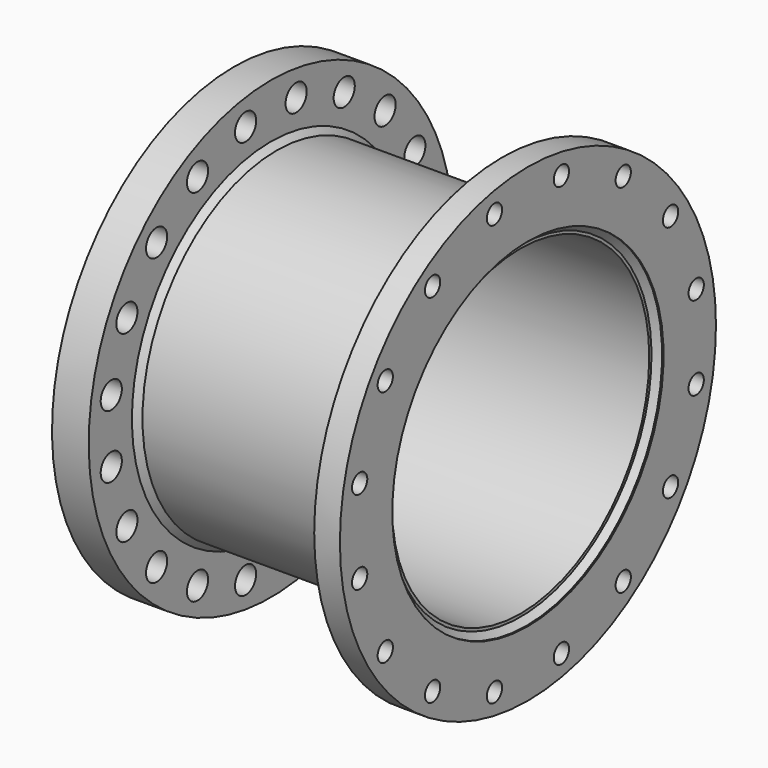
from build123d import *

# Parameters (mm, degrees)
F6_D     = 36
F6_DEPTH = 50
F8_D     = 26
F8_DEPTH = 50


with BuildPart() as f1:
    # F0 (on Front) → F1 (revolve)
    with BuildSketch(Plane.XZ):
        Polygon((-200, 230), (-198, 230), (-190, 230), (-150, 230), (-150, 236.5), (-150, 310), (-200, 310), align=None)
    revolve(axis=Axis((-10.172708, 0, 0), (1, 0, 0)))

    # F6
    with Locations(Plane(origin=(-200, 0, 0), x_dir=(0, -1, 0), z_dir=(-1, 0, 0))):
        with Locations((-124.847387, 245.026794), (-43.019478, 271.614294), (43.019478, 271.614294), (124.847387, 245.026794), (194.454365, 194.454365), (245.026794, 124.847387), (271.614294, 43.019478), (271.614294, -43.019478), (245.026794, -124.847387), (194.454365, -194.454365), (124.847387, -245.026794), (43.019478, -271.614294), (-43.019478, -271.614294), (-124.847387, -245.026794), (-194.454365, -194.454365), (-245.026794, -124.847387), (-271.614294, -43.019478), (-271.614294, 43.019478), (-245.026794, 124.847387), (-194.454365, 194.454365)):
            Hole(F6_D / 2, depth=F6_DEPTH)


with BuildPart() as f2:
    # F0 (on Front) → F2 (revolve)
    with BuildSketch(Plane.XZ):
        Polygon((165, 320), (165, 236.5), (165, 230.85), (190, 230.85), (198, 230.85), (200, 230.85), (200, 320), align=None)
    revolve(axis=Axis((-10.172708, 0, 0), (1, 0, 0)))

    # F8
    with Locations(Plane.YZ.offset(200)):
        with Locations((-162.226508, 242.789127), (-56.966374, 286.389302), (56.966374, 286.389302), (162.226508, 242.789127), (286.389302, 56.966374), (286.389302, -56.966374), (242.789127, 162.226508), (242.789127, -162.226508), (162.226508, -242.789127), (56.966374, -286.389302), (-56.966374, -286.389302), (-162.226508, -242.789127), (-286.389302, -56.966374), (-242.789127, -162.226508), (-242.789127, 162.226508), (-286.389302, 56.966374)):
            Hole(F8_D / 2, depth=F8_DEPTH)


with BuildPart() as f3:
    # F0 (on Front) → F3 (revolve)
    with BuildSketch(Plane.XZ):
        Polygon((0, 228.5), (0, 218.97), (190, 218.97), (190, 222.85), (190, 228.5), (165, 228.5), (157, 228.5), align=None)
        Polygon((-190, 218.97), (0, 218.97), (0, 228.5), (-142, 228.5), (-150, 228.5), (-190, 228.5), (-190, 222), align=None)
    revolve(axis=Axis((-10.172708, 0, 0), (1, 0, 0)))


with BuildPart() as f4:
    # F0 (on Front) → F4 (revolve)
    with BuildSketch(Plane.XZ):
        Polygon((-198, 230), (-190, 222), (-190, 228.5), (-190, 230), align=None)
        Polygon((-150, 228.5), (-142, 228.5), (-150, 236.5), (-150, 230), align=None)
        Polygon((165, 236.5), (157, 228.5), (165, 228.5), (165, 230.85), align=None)
        Polygon((190, 228.5), (190, 222.85), (198, 230.85), (190, 230.85), align=None)
    revolve(axis=Axis((-10.172708, 0, 0), (1, 0, 0)))


solid = Compound([f1.part, f2.part, f3.part, f4.part])
